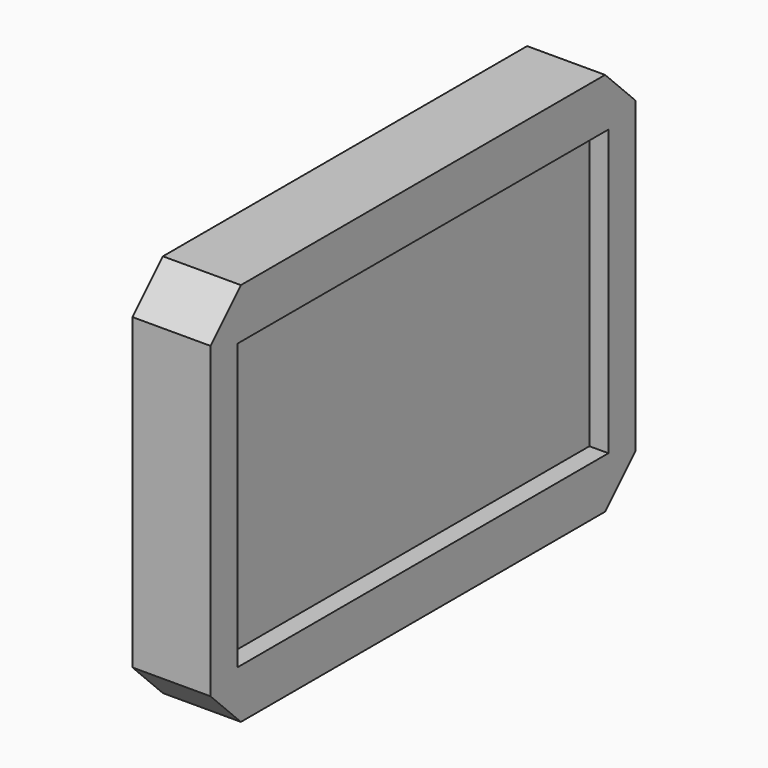
from build123d import *

# Parameters (mm, degrees)
F0_W      = 70.9643363953
F0_H      = 51.3598918915
F1_DEPTH  = 76.2
F2_DEPTH  = 25.4
F3_DEPTH  = 40.3854846954
F4_DEPTH  = 25.4
F5_W      = 61.9144514203
F5_H      = 38.062274456
F6_DEPTH  = 2.54
F7_SIZE   = 5.08
F8_SIZE   = 5.08
F9_SIZE   = 5.08
F10_SIZE  = 5.08
F11_DEPTH = 25.4


with BuildPart() as f1:
    # F0 (on Right) → F1 (new body)
    with BuildSketch(Plane.YZ):
        Rectangle(F0_W, F0_H)
        Rectangle(F0_W, F0_H)
    extrude(amount=F1_DEPTH)

    # F2 (add): a face of the model
    f2_faces = [f1.faces().sort_by_distance(p)[0] for p in [
        (76.2, 0, 0),
    ]]
    extrude(f2_faces, amount=F2_DEPTH)

    # F3 (cut): a face of the model
    f3_faces = [f1.faces().sort_by_distance(p)[0] for p in [
        (101.6, 0, 0),
    ]]
    extrude(f3_faces, amount=-F3_DEPTH, mode=Mode.SUBTRACT)

    # F4 (cut): a face of the model
    f4_faces = [f1.faces().sort_by_distance(p)[0] for p in [
        (61.2145153046, 0, 0),
    ]]
    extrude(f4_faces, amount=-F4_DEPTH, mode=Mode.SUBTRACT)

    # F5 (on face) → F6 (cut)
    with BuildSketch(Plane.YZ.offset(35.8145153046)):
        Rectangle(F5_W, F5_H)
    extrude(amount=-F6_DEPTH, mode=Mode.SUBTRACT)

    # F7
    f7_edges = [f1.edges().sort_by_distance(p)[0] for p in [
        (17.907258, -35.482168, 25.679946),
    ]]
    chamfer(f7_edges, length=F7_SIZE)

    # F8
    f8_edges = [f1.edges().sort_by_distance(p)[0] for p in [
        (17.907258, -35.482168, -25.679946),
    ]]
    chamfer(f8_edges, length=F8_SIZE)

    # F9
    f9_edges = [f1.edges().sort_by_distance(p)[0] for p in [
        (17.907258, 35.482168, 25.679946),
    ]]
    chamfer(f9_edges, length=F9_SIZE)

    # F10
    f10_edges = [f1.edges().sort_by_distance(p)[0] for p in [
        (17.907258, 35.482168, -25.679946),
    ]]
    chamfer(f10_edges, length=F10_SIZE)

    # F11 (cut): a face of the model
    f11_faces = [f1.faces().sort_by_distance(p)[0] for p in [
        (0, 0, 0),
    ]]
    extrude(f11_faces, amount=-F11_DEPTH, mode=Mode.SUBTRACT)


solid = f1.part
